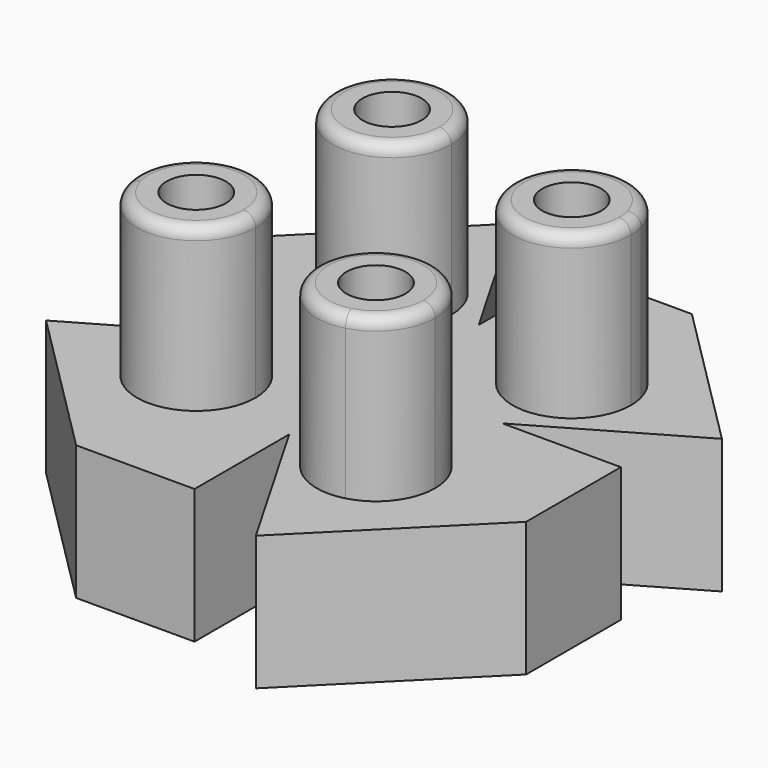
from build123d import *

# Parameters (mm, degrees)
F1_DEPTH = 22.7
F2_DEPTH = 50
F3_R     = 5
F5_DEPTH = 50
F4_R     = 5
F6_DEPTH = 50
F7_R     = 2


with BuildPart() as f1:
    # F0 (on Top) → F1 (new body)
    with BuildSketch(Plane.XY):
        Polygon((0, -20), (0, 0), (-20, 0), (-45.358984, -14.641016), (-20, -40), (0, -40), align=None)
        with BuildLine():
            ThreePointArc((-10, -14.641016), (-18.69862, -24.555975), (-29.661282, -17.221643))
            ThreePointArc((-29.661282, -17.221643), (-21.30138, -4.726057), (-10, -14.641016))
        make_face(mode=Mode.SUBTRACT)
        Polygon((-20, 0), (0, 0), (0, 20), (-14.641016, 45.358984), (-40, 20), (-40, 0), align=None)
        with BuildLine():
            ThreePointArc((-4.641016, 20), (-20.731736, 12.068851), (-17.221643, 29.661282))
            ThreePointArc((-17.221643, 29.661282), (-8.550296, 27.931149), (-4.641016, 20))
        make_face(mode=Mode.SUBTRACT)
        with BuildLine():
            ThreePointArc((-4.641016, 20), (-8.550296, 27.931149), (-17.221643, 29.661282))
            ThreePointArc((-17.221643, 29.661282), (-20.731736, 12.068851), (-4.641016, 20))
        make_face()
        with BuildLine():
            ThreePointArc((-10, -14.641016), (-21.30138, -4.726057), (-29.661282, -17.221643))
            ThreePointArc((-29.661282, -17.221643), (-18.69862, -24.555975), (-10, -14.641016))
        make_face()
        Polygon((0, 20), (0, 0), (20, 0), (45.358984, 14.641016), (20, 40), (0, 40), align=None)
        with BuildLine():
            ThreePointArc((30, 14.641016), (10.085041, 13.339636), (29.661282, 17.221643))
            ThreePointArc((29.661282, 17.221643), (29.914959, 15.942396), (30, 14.641016))
        make_face(mode=Mode.SUBTRACT)
        with BuildLine():
            ThreePointArc((24.641016, -20), (6.709867, -13.90928), (17.221643, -29.661282))
            ThreePointArc((17.221643, -29.661282), (22.572166, -26.09072), (24.641016, -20))
        make_face()
        with BuildLine():
            ThreePointArc((30, 14.641016), (29.914959, 15.942396), (29.661282, 17.221643))
            ThreePointArc((29.661282, 17.221643), (10.085041, 13.339636), (30, 14.641016))
        make_face()
        Polygon((20, 0), (0, 0), (0, -20), (14.641016, -45.358984), (40, -20), (40, 0), align=None)
        with BuildLine():
            ThreePointArc((24.641016, -20), (22.572166, -26.09072), (17.221643, -29.661282))
            ThreePointArc((17.221643, -29.661282), (6.709867, -13.90928), (24.641016, -20))
        make_face(mode=Mode.SUBTRACT)
    extrude(amount=F1_DEPTH)

    # F0 (on Top) → F2 (join)
    with BuildSketch(Plane.XY):
        with BuildLine():
            ThreePointArc((-10, -14.641016), (-21.30138, -4.726057), (-29.661282, -17.221643))
            ThreePointArc((-29.661282, -17.221643), (-18.69862, -24.555975), (-10, -14.641016))
        make_face()
        with BuildLine():
            ThreePointArc((-4.641016, 20), (-8.550296, 27.931149), (-17.221643, 29.661282))
            ThreePointArc((-17.221643, 29.661282), (-20.731736, 12.068851), (-4.641016, 20))
        make_face()
        with BuildLine():
            ThreePointArc((30, 14.641016), (29.914959, 15.942396), (29.661282, 17.221643))
            ThreePointArc((29.661282, 17.221643), (10.085041, 13.339636), (30, 14.641016))
        make_face()
        with BuildLine():
            ThreePointArc((24.641016, -20), (6.709867, -13.90928), (17.221643, -29.661282))
            ThreePointArc((17.221643, -29.661282), (22.572166, -26.09072), (24.641016, -20))
        make_face()
    extrude(amount=F2_DEPTH)

    # F3 (on face) → F5 (cut)
    with BuildSketch(Plane.XY.offset(50)):
        with Locations((20, 14.641016)):
            Circle(F3_R)
    extrude(amount=-F5_DEPTH, mode=Mode.SUBTRACT)

    # F3 (on face) + F4 (on face) → F6 (cut)
    with BuildSketch(Plane.XY.offset(50)):
        with Locations((20, 14.641016)):
            Circle(F3_R)
    with BuildSketch(Plane.XY.offset(50)):
        with Locations((-14.641016, 20)):
            Circle(F4_R)
        with Locations((-20, -14.641016)):
            Circle(F4_R)
        with Locations((14.641016, -20)):
            Circle(F4_R)
    extrude(amount=-F6_DEPTH, mode=Mode.SUBTRACT)

    # F7
    f7_edges = [f1.edges().sort_by_distance(p)[0] for p in [
        (-10.338718, -12.06039, 50),
        (12.06039, -10.338718, 50),
        (10, 14.641016, 50),
        (-24.641016, 20, 50),
    ]]
    fillet(f7_edges, radius=F7_R)


solid = f1.part
